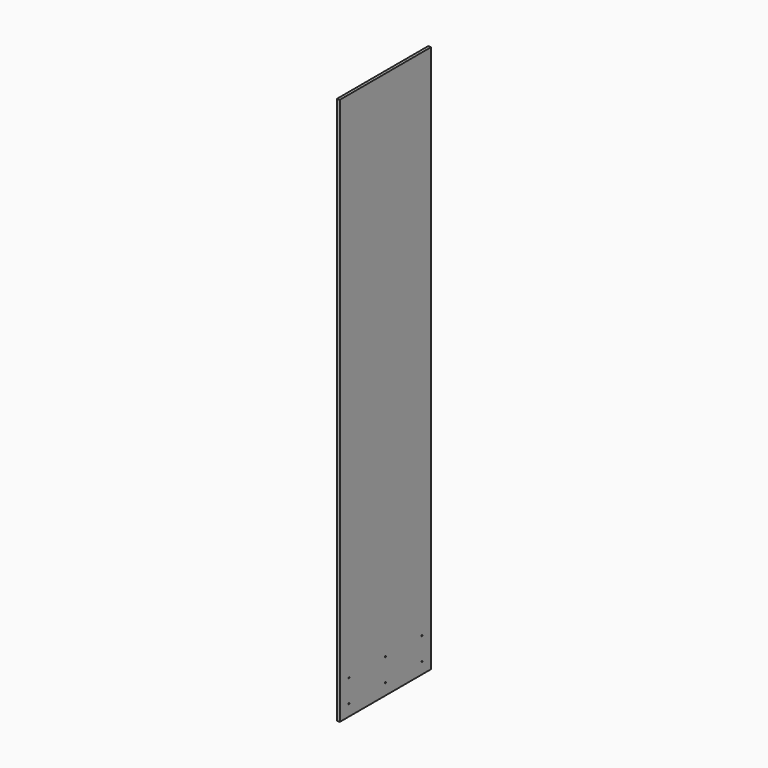
from build123d import *

# Parameters (mm, degrees)
F0_W     = 254
F0_H     = 1117.6
F0_H_2   = 101.6
F0_R     = 1.27
F1_DEPTH = 6.35


with BuildPart() as f1:
    # F0 (on Right) → F1 (new body)
    with BuildSketch(Plane.YZ):
        with Locations((0, 50.8)):
            Rectangle(F0_W, F0_H)
        with Locations((0, -558.8)):
            Rectangle(F0_W, F0_H_2)
        with Locations((-101.6, -584.2)):
            Circle(F0_R, mode=Mode.SUBTRACT)
        with Locations((-101.6, -533.4)):
            Circle(F0_R, mode=Mode.SUBTRACT)
        with Locations((0, -584.2)):
            Circle(F0_R, mode=Mode.SUBTRACT)
        with Locations((0, -533.4)):
            Circle(F0_R, mode=Mode.SUBTRACT)
        with Locations((101.6, -584.2)):
            Circle(F0_R, mode=Mode.SUBTRACT)
        with Locations((101.6, -533.4)):
            Circle(F0_R, mode=Mode.SUBTRACT)
    extrude(amount=F1_DEPTH)


solid = f1.part
